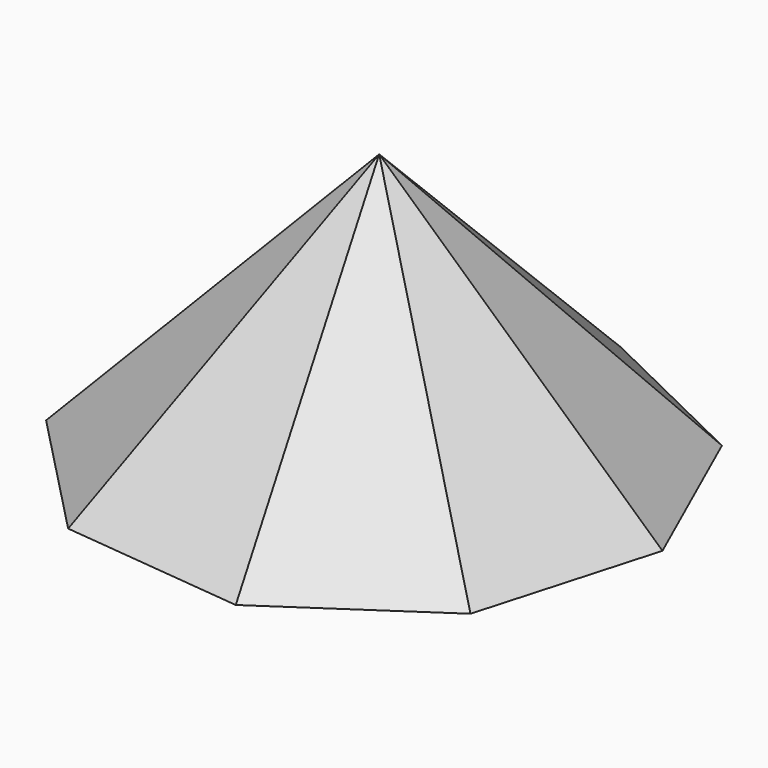
from build123d import *


with BuildPart() as f3:
    # F0 (on Top) → F3 section 0
    with BuildSketch(Plane.XY, mode=Mode.PRIVATE) as f3_s0:
        Polygon((107.525621, 103.969671), (15.538988, 148.761526), (-83.71851, 123.946209), (-143.803187, 41.135083), (-136.600754, -60.923605), (-65.48131, -134.475461), (36.277566, -145.104755), (121.061767, -87.837921), (149.199821, 10.529252), align=None)
    loft([Vertex(0, 0, 150), f3_s0.sketch])


solid = f3.part
